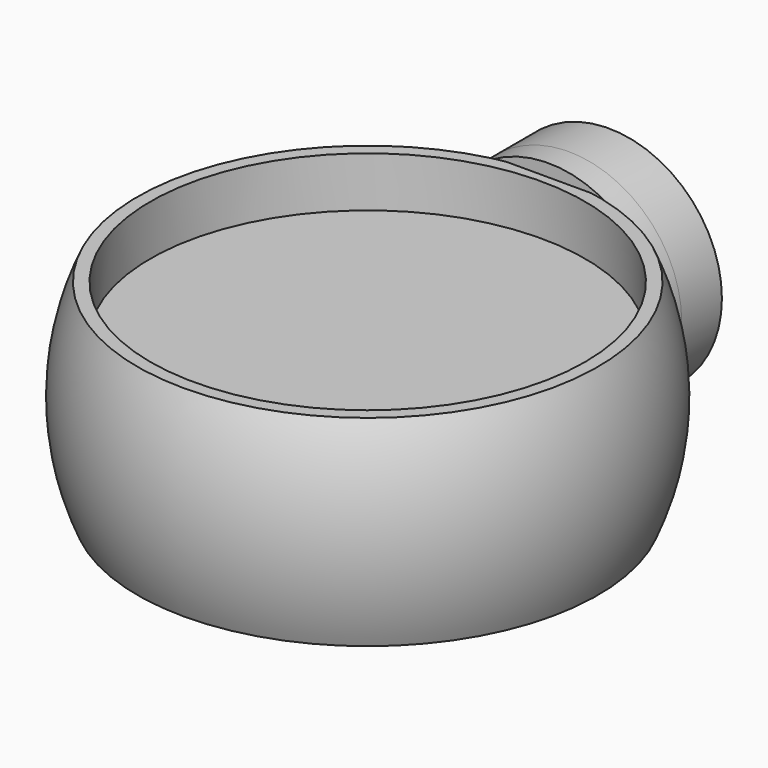
from build123d import *

# Parameters (mm, degrees)
F2_R     = 10.9855
F3_DEPTH = 2.54
F4_R     = 10.9855
F5_DEPTH = 2.54
F6_R     = 5.715
F6_R_2   = 3.81
F7_DEPTH = 2.54
F8_R     = 5.715
F8_R_2   = 3.81
F9_DEPTH = 1.27


with BuildPart() as f1:
    # F0 (on Right) → F1 (revolve)
    with BuildSketch(Plane.YZ):
        with BuildLine():
            Line((-12.7, 5.08), (-24.339742, 5.08))
            ThreePointArc((-24.339742, 5.08), (-25.4, 0), (-24.339742, -5.08))
            Line((-24.339742, -5.08), (-12.7, -5.08))
            Line((-12.7, -5.08), (-12.7, 5.08))
        make_face()
    revolve(axis=Axis((0, -12.7, 0), (0, 0, -1)))

    # F2 (on face) → F3 (cut)
    with BuildSketch(Plane.XY.offset(5.08)):
        with Locations((0, -12.7)):
            Circle(F2_R)
    extrude(amount=-F3_DEPTH, mode=Mode.SUBTRACT)

    # F4 (on face) → F5 (cut)
    with BuildSketch(Plane(origin=(0, 0, -5.08), x_dir=(1, 0, 0), z_dir=(0, 0, -1))):
        with Locations((0, 12.7)):
            Circle(F4_R)
    extrude(amount=-F5_DEPTH, mode=Mode.SUBTRACT)


with BuildPart() as f7:
    # F6 (on Front) → F7 (new body)
    with BuildSketch(Plane.XZ):
        Circle(F6_R)
        Circle(F6_R_2, mode=Mode.SUBTRACT)
    extrude(amount=-F7_DEPTH)


with BuildPart() as f9:
    # F8 (on Front) → F9 (new body)
    with BuildSketch(Plane.XZ):
        Circle(F8_R)
        Circle(F8_R_2, mode=Mode.SUBTRACT)
    extrude(amount=F9_DEPTH)


solid = Compound([f1.part, f7.part, f9.part])
